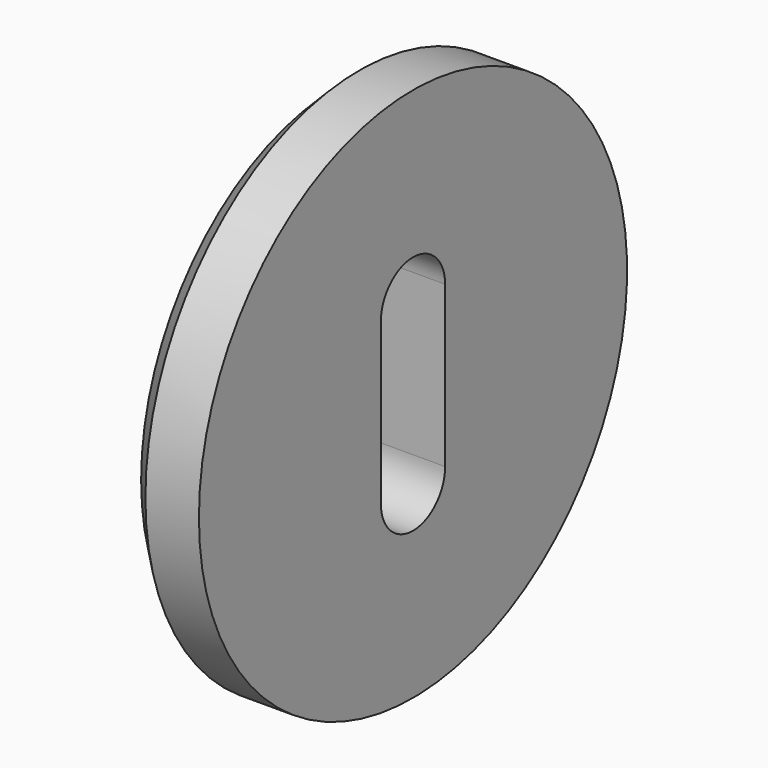
from build123d import *

# Parameters (mm, degrees)
EXTRUDE020_DEPTH         = 10
CIRCLE002_R              = 25
EXTRUDE019_DEPTH         = 7
CHAMFER002_SIZE          = 2
CLONE032_PLACEMENT_ANGLE = 90


with BuildPart() as extrude020:
    # Sketch030 (on Face4 of Chamfer002) → Extrude020 (new body, symmetric)
    with BuildSketch(Plane(origin=(0, 7, 0), x_dir=(-1, 0, 0), z_dir=(0, 1, 0))):
        with BuildLine():
            ThreePointArc((3.75, 7.5), (0, 11.25), (-3.75, 7.5))
            Line((-3.75, 7.5), (-3.75, -7.5))
            ThreePointArc((-3.75, -7.5), (0, -11.25), (3.75, -7.5))
            Line((3.75, 7.5), (3.75, -7.5))
        make_face()
    extrude(amount=EXTRUDE020_DEPTH, both=True)


with BuildPart() as lock_righ_internal:
    # Circle002 → Extrude019 (new body)
    with BuildSketch(Plane.XZ):
        Circle(CIRCLE002_R)
    extrude(amount=-EXTRUDE019_DEPTH)

    # Chamfer002
    chamfer002_edges = [lock_righ_internal.edges().sort_by_distance(p)[0] for p in [
        (-25, 7, 0),
    ]]
    chamfer(chamfer002_edges, length=CHAMFER002_SIZE)

    # Cut004: cut Extrude020
    add(extrude020.part, mode=Mode.SUBTRACT)


with BuildPart() as lock_righ_internal_1:
    # Cut004 placement: moved
    add(lock_righ_internal.part.moved(Location((0, 0, -83.343755))))


with BuildPart() as lock_righ_internal_2:
    # Clone032 placement: moved
    add(lock_righ_internal_1.part.moved(Location((-370, -215, 33.343755))).rotate(Axis((-370, -215, 33.343755), (0, 0, -1)), CLONE032_PLACEMENT_ANGLE))


with BuildPart() as mirror171:
    # Mirror171: instance of Lock_righ_internal_
    add(lock_righ_internal_2.part.mirror(Plane(origin=(0, 0, 0), x_dir=(0, -1, 0), z_dir=(1, 0, 0))))


solid = mirror171.part
